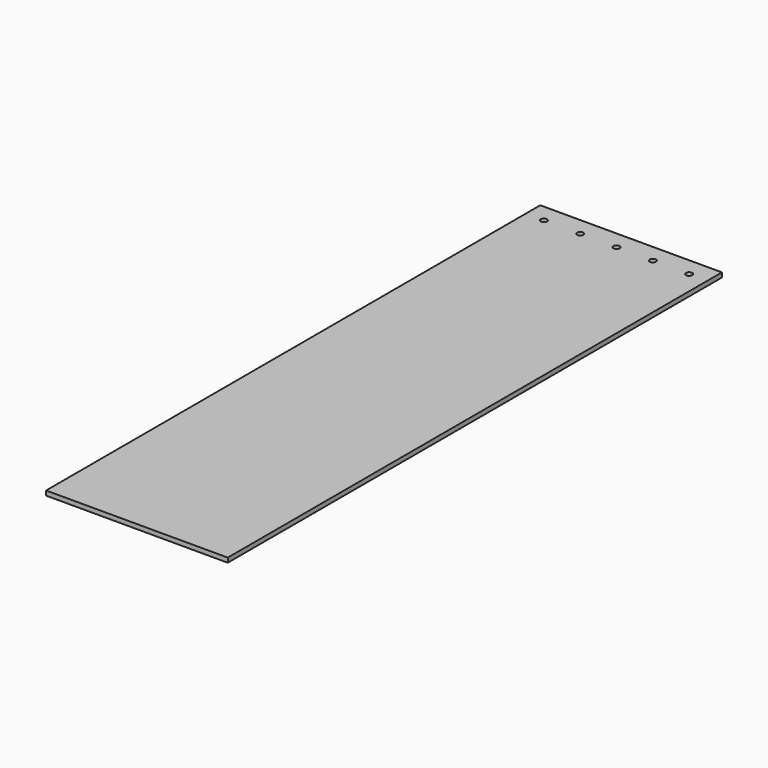
from build123d import *

# Parameters (mm, degrees)
F0_W     = 127
F0_H     = 431.8
F0_R     = 2.1844
F1_DEPTH = 3.175


with BuildPart() as f1:
    # F0 (on Top) → F1 (new body)
    with BuildSketch(Plane.XY):
        with Locations((63.5, -215.9)):
            Rectangle(F0_W, F0_H)
        with Locations((12.7, -12.7)):
            Circle(F0_R, mode=Mode.SUBTRACT)
        with Locations((38.1, -12.7)):
            Circle(F0_R, mode=Mode.SUBTRACT)
        with Locations((63.5, -12.7)):
            Circle(F0_R, mode=Mode.SUBTRACT)
        with Locations((88.9, -12.7)):
            Circle(F0_R, mode=Mode.SUBTRACT)
        with Locations((114.3, -12.7)):
            Circle(F0_R, mode=Mode.SUBTRACT)
    extrude(amount=F1_DEPTH)


solid = f1.part
